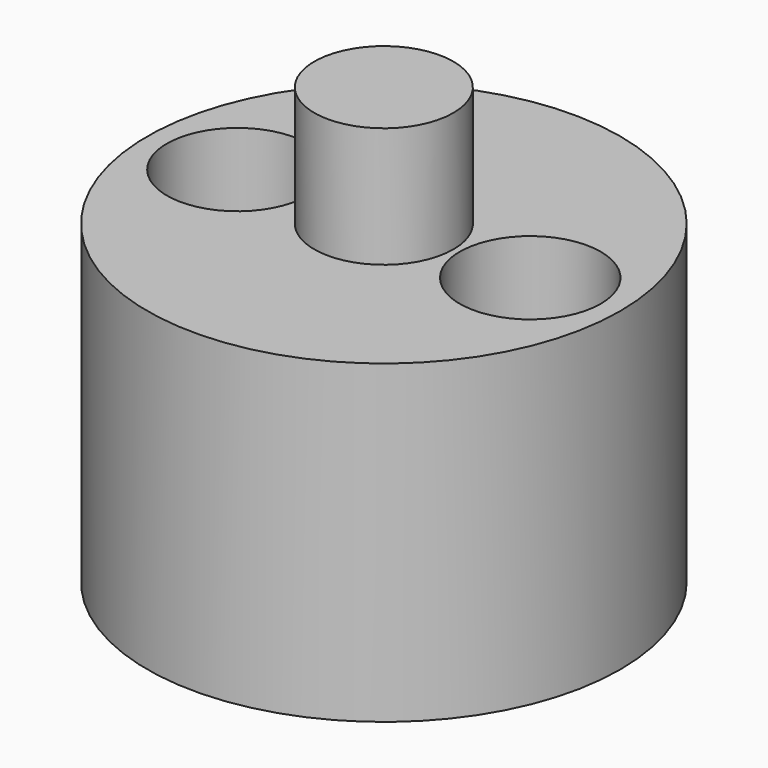
from build123d import *

# Parameters (mm, degrees)
F0_R      = 9.4996
F1_DEPTH  = 5.461
F2_R      = 2.794
F3_DEPTH  = 12.0396
F4_R      = 2.8321
F5_DEPTH  = 3.3782
F6_R      = 2.0955
F7_DEPTH  = 4.445
F8_R      = 1.6002
F9_DEPTH  = 25.4
F10_DEPTH = 7.2136


with BuildPart() as f1:
    # F0 (on Top) → F1 (new body)
    with BuildSketch(Plane.XY):
        Circle(F0_R)
    extrude(amount=F1_DEPTH)

    # F2 (on face) → F3 (join)
    with BuildSketch(Plane.XY.offset(5.461)):
        Circle(F2_R)
    extrude(amount=F3_DEPTH)

    # F4 (on face) → F5 (cut)
    with BuildSketch(Plane.XY.offset(5.461)):
        with Locations((-5.8801, 0)):
            Circle(F4_R)
        with Locations((5.8801, 0)):
            Circle(F4_R)
    extrude(amount=-F5_DEPTH, mode=Mode.SUBTRACT)

    # F6 (on face) → F7 (cut)
    with BuildSketch(Plane(origin=(0, 0, 0), x_dir=(1, 0, 0), z_dir=(0, 0, -1))):
        Circle(F6_R)
    extrude(amount=-F7_DEPTH, mode=Mode.SUBTRACT)

    # F8 (on face) → F9 (cut)
    with BuildSketch(Plane(origin=(0, 0, 0), x_dir=(1, 0, 0), z_dir=(0, 0, -1))):
        with Locations((5.969, 0)):
            Circle(F8_R)
        with Locations((-5.969, 0)):
            Circle(F8_R)
    extrude(amount=-F9_DEPTH, mode=Mode.SUBTRACT)

    # F10 (add): a face of the model
    f10_faces = [f1.faces().sort_by_distance(p)[0] for p in [
        (-9.2309107369, 0, 5.461),
    ]]
    extrude(f10_faces, amount=F10_DEPTH)


solid = f1.part
